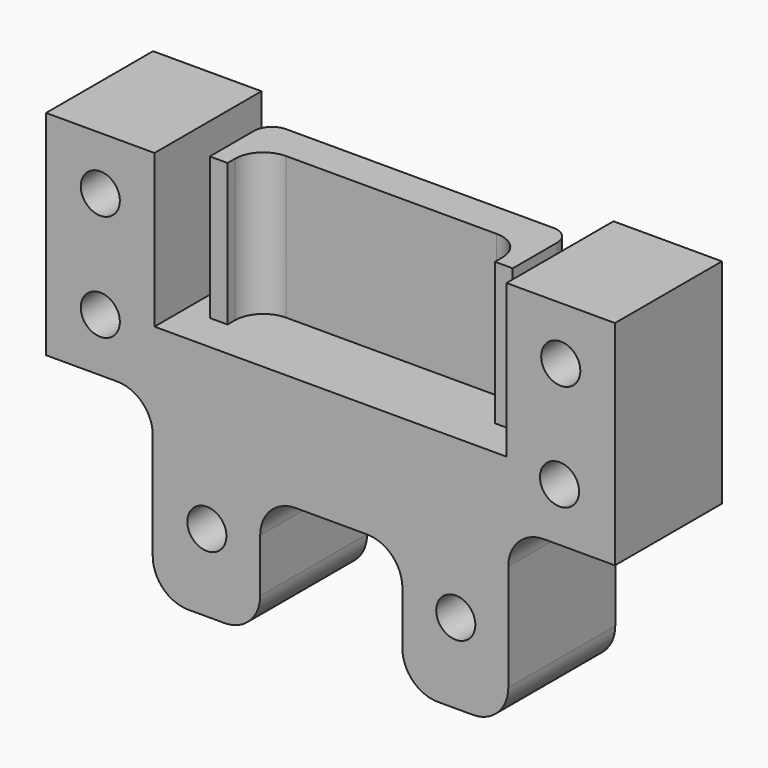
from build123d import *

# Parameters (mm, degrees)
F1_DEPTH = 18.8
F3_DEPTH = 20
F4_R     = 4
F5_R     = 2.5
F6_R     = 2.5
F7_R     = 4
F8_R     = 5
F10_R    = 5
F11_R    = 5
F12_R    = 5
F13_D    = 5.5


with BuildPart() as f1:
    # F0 (on Front) → F1 (new body)
    with BuildSketch(Plane.XZ):
        Polygon((-24.75, 21.5), (-40, 21.5), (-40, -8.5), (-25, -8.5), (-25, -33.5), (-9.892726, -33.5), (-9.892726, -16), (10.107274, -16), (10.107274, -33.5), (25, -33.5), (25, -8.5), (40, -8.5), (40, 21.5), (24.75, 21.5), (24.75, 0), (-24.75, 0), align=None)
    extrude(amount=F1_DEPTH)

    # F8
    f8_edges = [f1.edges().sort_by_distance(p)[0] for p in [
        (-25, -9.4, -33.5),
        (-9.892726, -9.4, -33.5),
        (10.107274, -9.4, -33.5),
        (25, -9.4, -33.5),
    ]]
    fillet(f8_edges, radius=F8_R)

    # F10
    f10_edges = [f1.edges().sort_by_distance(p)[0] for p in [
        (-25, -9.4, -8.5),
    ]]
    fillet(f10_edges, radius=F10_R)

    # F11
    f11_edges = [f1.edges().sort_by_distance(p)[0] for p in [
        (25, -9.4, -8.5),
    ]]
    fillet(f11_edges, radius=F11_R)

    # F12
    f12_edges = [f1.edges().sort_by_distance(p)[0] for p in [
        (-9.892726, -9.4, -16),
        (10.107274, -9.4, -16),
    ]]
    fillet(f12_edges, radius=F12_R)

    # F13 (through all)
    with Locations(Plane.XZ.offset(18.8)):
        with Locations((-32.375, 14), (-32.375, -1), (32.375, 14), (32.204479, -1), (17.611818, -22.25), (-17.388182, -22.643771)):
            Hole(F13_D / 2)


with BuildPart() as f3:
    # F2 (on face) → F3 (new body)
    with BuildSketch(Plane.XY):
        Polygon((21.3, -3.1), (-21.3, -3.1), (-21.3, -13.4), (-18.8, -13.4), (-18.8, -8.1), (18.8, -8.1), (18.8, -13.4), (21.3, -13.4), align=None)
    extrude(amount=F3_DEPTH)

    # F4
    f4_edges = [f3.edges().sort_by_distance(p)[0] for p in [
        (-18.8, -8.1, 10),
    ]]
    fillet(f4_edges, radius=F4_R)

    # F5
    f5_edges = [f3.edges().sort_by_distance(p)[0] for p in [
        (21.3, -3.1, 10),
    ]]
    fillet(f5_edges, radius=F5_R)

    # F6
    f6_edges = [f3.edges().sort_by_distance(p)[0] for p in [
        (-21.3, -3.1, 10),
    ]]
    fillet(f6_edges, radius=F6_R)

    # F7
    f7_edges = [f3.edges().sort_by_distance(p)[0] for p in [
        (18.8, -8.1, 10),
    ]]
    fillet(f7_edges, radius=F7_R)


solid = Compound([f1.part, f3.part])
